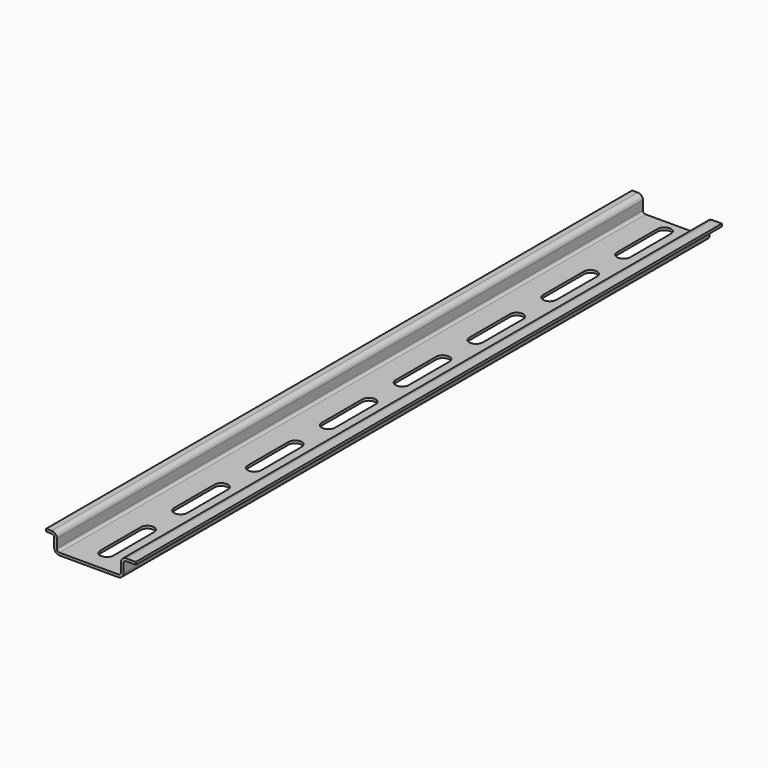
from build123d import *

# Parameters (mm, degrees)
F1_DEPTH = 142.875
F3_DEPTH = 1.00176


with BuildPart() as f1:
    # F0 (on Front) → F1 (new body, symmetric)
    with BuildSketch(Plane.XZ):
        with BuildLine():
            ThreePointArc((-13.5001, 1.99898), (-12.914612, 0.585488), (-11.50112, 0))
            Line((-11.50112, 0), (11.50112, 0))
            ThreePointArc((11.50112, 0), (12.914612, 0.585488), (13.5001, 1.99898))
            Line((13.5001, 1.99898), (13.5001, 5.4991))
            ThreePointArc((13.5001, 5.4991), (13.793216, 6.206744), (14.50086, 6.49986))
            Line((14.50086, 6.49986), (18.328109, 6.49986))
            Line((18.328109, 6.49986), (18.328109, 7.50062))
            Line((18.328109, 7.50062), (14.5161, 7.50062))
            ThreePointArc((14.5161, 7.50062), (13.102608, 6.915132), (12.51712, 5.50164))
            Line((12.51712, 5.50164), (12.51712, 2.00152))
            ThreePointArc((12.51712, 2.00152), (12.224004, 1.293876), (11.51636, 1.00076))
            Line((11.51636, 1.00076), (-11.48334, 1.00076))
            ThreePointArc((-11.48334, 1.00076), (-12.190984, 1.293876), (-12.4841, 2.00152))
            Line((-12.4841, 2.00152), (-12.4841, 5.50164))
            ThreePointArc((-12.4841, 5.50164), (-13.069588, 6.915132), (-14.48308, 7.50062))
            Line((-14.48308, 7.50062), (-16.673091, 7.50062))
            Line((-16.673091, 7.50062), (-16.673091, 6.49986))
            Line((-16.673091, 6.49986), (-14.50086, 6.49986))
            ThreePointArc((-14.50086, 6.49986), (-13.793216, 6.206744), (-13.5001, 5.4991))
            Line((-13.5001, 5.4991), (-13.5001, 1.99898))
        make_face()
    extrude(amount=F1_DEPTH, both=True)

    # F2 (on face) → F3 (cut, through all)
    with BuildSketch(Plane.XY.offset(1.00076)):
        with BuildLine():
            ThreePointArc((2.59969, 29.69895), (0, 32.29864), (-2.59969, 29.69895))
            Line((-2.59969, 29.69895), (-2.59969, 9.89965))
            ThreePointArc((-2.59969, 9.89965), (0, 7.29996), (2.59969, 9.89965))
            Line((2.59969, 9.89965), (2.59969, 29.69895))
        make_face()
        with BuildLine():
            ThreePointArc((-2.59969, 45.89907), (0, 43.29938), (2.59969, 45.89907))
            Line((2.59969, 45.89907), (2.59969, 65.69837))
            ThreePointArc((2.59969, 65.69837), (0, 68.29806), (-2.59969, 65.69837))
            Line((-2.59969, 65.69837), (-2.59969, 45.89907))
        make_face()
        with BuildLine():
            ThreePointArc((-2.59969, 81.89849), (0, 79.2988), (2.59969, 81.89849))
            Line((2.59969, 81.89849), (2.59969, 101.69779))
            ThreePointArc((2.59969, 101.69779), (0, 104.29748), (-2.59969, 101.69779))
            Line((-2.59969, 101.69779), (-2.59969, 81.89849))
        make_face()
        with BuildLine():
            ThreePointArc((-2.59969, 117.89791), (0, 115.29822), (2.59969, 117.89791))
            Line((2.59969, 117.89791), (2.59969, 137.69721))
            ThreePointArc((2.59969, 137.69721), (0, 140.2969), (-2.59969, 137.69721))
            Line((-2.59969, 137.69721), (-2.59969, 117.89791))
        make_face()
        with BuildLine():
            ThreePointArc((-2.59969, -26.09977), (0, -28.69946), (2.59969, -26.09977))
            Line((2.59969, -26.09977), (2.59969, -6.30047))
            ThreePointArc((2.59969, -6.30047), (0, -3.70078), (-2.59969, -6.30047))
            Line((-2.59969, -6.30047), (-2.59969, -26.09977))
        make_face()
        with BuildLine():
            ThreePointArc((-2.59969, -62.09919), (0, -64.69888), (2.59969, -62.09919))
            Line((2.59969, -62.09919), (2.59969, -42.29989))
            ThreePointArc((2.59969, -42.29989), (0, -39.7002), (-2.59969, -42.29989))
            Line((-2.59969, -42.29989), (-2.59969, -62.09919))
        make_face()
        with BuildLine():
            ThreePointArc((-2.59969, -98.09861), (0, -100.6983), (2.59969, -98.09861))
            Line((2.59969, -98.09861), (2.59969, -78.29931))
            ThreePointArc((2.59969, -78.29931), (0, -75.69962), (-2.59969, -78.29931))
            Line((-2.59969, -78.29931), (-2.59969, -98.09861))
        make_face()
        with BuildLine():
            ThreePointArc((-2.59969, -134.10311), (0, -136.7028), (2.59969, -134.10311))
            Line((2.59969, -134.10311), (2.59969, -114.30381))
            ThreePointArc((2.59969, -114.30381), (0, -111.70412), (-2.59969, -114.30381))
            Line((-2.59969, -114.30381), (-2.59969, -134.10311))
        make_face()
    extrude(amount=-F3_DEPTH, mode=Mode.SUBTRACT)


solid = f1.part
